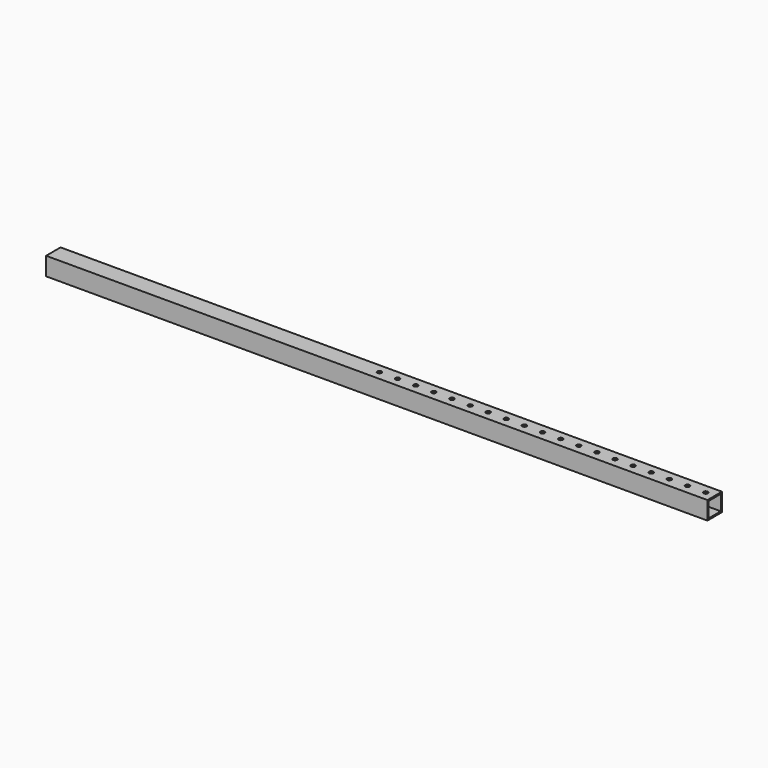
from build123d import *

# Parameters (mm, degrees)
F0_W     = 1825
F0_H     = 50
F0_R     = 6
F1_DEPTH = 50
F2_W     = 42
F2_H     = 42
F3_DEPTH = 1825.001


with BuildPart() as f1:
    # F0 (on Top) → F1 (new body)
    with BuildSketch(Plane.XY):
        with Locations((889.037455, 1772.636164)):
            Rectangle(F0_W, F0_H)
        with Locations((876.537455, 1772.636164)):
            Circle(F0_R, mode=Mode.SUBTRACT)
        with Locations((926.537455, 1772.636164)):
            Circle(F0_R, mode=Mode.SUBTRACT)
        with Locations((976.537455, 1772.636164)):
            Circle(F0_R, mode=Mode.SUBTRACT)
        with Locations((1026.537455, 1772.636164)):
            Circle(F0_R, mode=Mode.SUBTRACT)
        with Locations((1076.537455, 1772.636164)):
            Circle(F0_R, mode=Mode.SUBTRACT)
        with Locations((1126.537455, 1772.636164)):
            Circle(F0_R, mode=Mode.SUBTRACT)
        with Locations((1176.537455, 1772.636164)):
            Circle(F0_R, mode=Mode.SUBTRACT)
        with Locations((1326.537455, 1772.636164)):
            Circle(F0_R, mode=Mode.SUBTRACT)
        with Locations((1376.537455, 1772.636164)):
            Circle(F0_R, mode=Mode.SUBTRACT)
        with Locations((1226.537455, 1772.636164)):
            Circle(F0_R, mode=Mode.SUBTRACT)
        with Locations((1276.537455, 1772.636164)):
            Circle(F0_R, mode=Mode.SUBTRACT)
        with Locations((1426.537455, 1772.636164)):
            Circle(F0_R, mode=Mode.SUBTRACT)
        with Locations((1476.537455, 1772.636164)):
            Circle(F0_R, mode=Mode.SUBTRACT)
        with Locations((1526.537455, 1772.636164)):
            Circle(F0_R, mode=Mode.SUBTRACT)
        with Locations((1576.537455, 1772.636164)):
            Circle(F0_R, mode=Mode.SUBTRACT)
        with Locations((1626.537455, 1772.636164)):
            Circle(F0_R, mode=Mode.SUBTRACT)
        with Locations((1676.537455, 1772.636164)):
            Circle(F0_R, mode=Mode.SUBTRACT)
        with Locations((1726.537455, 1772.636164)):
            Circle(F0_R, mode=Mode.SUBTRACT)
        with Locations((1776.537455, 1772.636164)):
            Circle(F0_R, mode=Mode.SUBTRACT)
    extrude(amount=F1_DEPTH)

    # F2 (on face) → F3 (cut, through all)
    with BuildSketch(Plane.YZ.offset(1801.537455)):
        with Locations((1772.636164, 25)):
            Rectangle(F2_W, F2_H)
    extrude(amount=-F3_DEPTH, mode=Mode.SUBTRACT)


solid = f1.part
